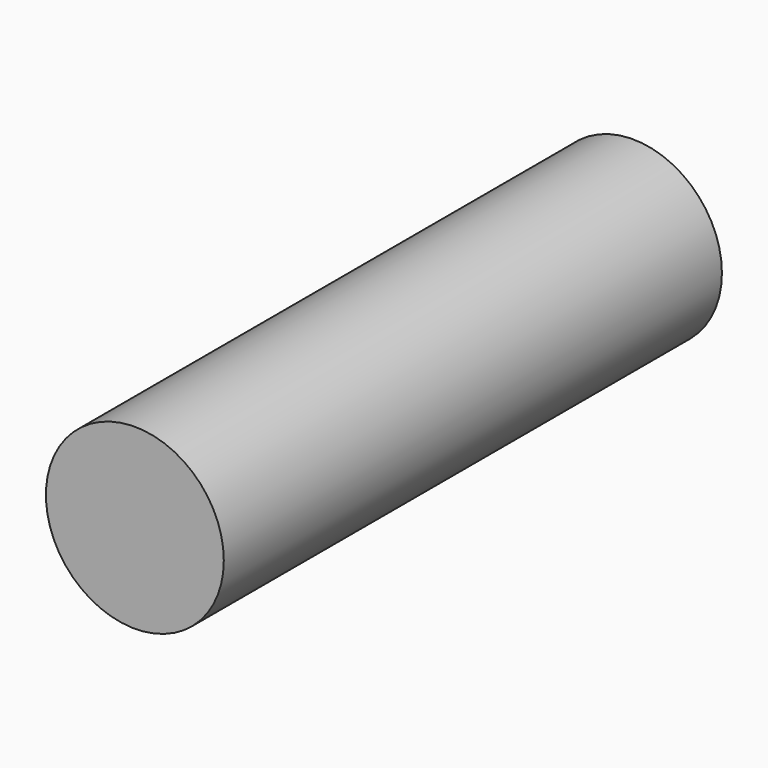
from build123d import *

# Parameters (mm, degrees)
F1_R     = 12.7
F2_DEPTH = 88.9


with BuildPart() as f2:
    # F1 (on offset) → F2 (new body)
    with BuildSketch(Plane.XZ.offset(-12.7)):
        Circle(F1_R)
    extrude(amount=F2_DEPTH)


solid = f2.part
